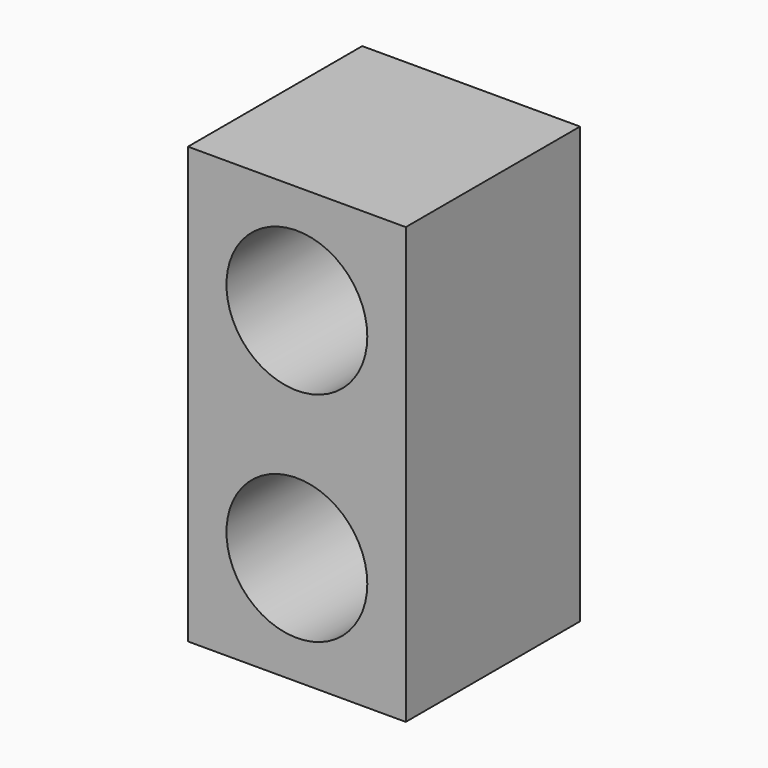
from build123d import *

# Parameters (mm, degrees)
F0_W     = 15
F0_H     = 30
F0_R     = 4.85
F1_DEPTH = 7.5


with BuildPart() as f1:
    # F0 (on Front) → F1 (new body, symmetric)
    with BuildSketch(Plane.XZ):
        Rectangle(F0_W, F0_H)
        with Locations((0, -7.5)):
            Circle(F0_R, mode=Mode.SUBTRACT)
        with Locations((0, 7.5)):
            Circle(F0_R, mode=Mode.SUBTRACT)
    extrude(amount=F1_DEPTH, both=True)


solid = f1.part
